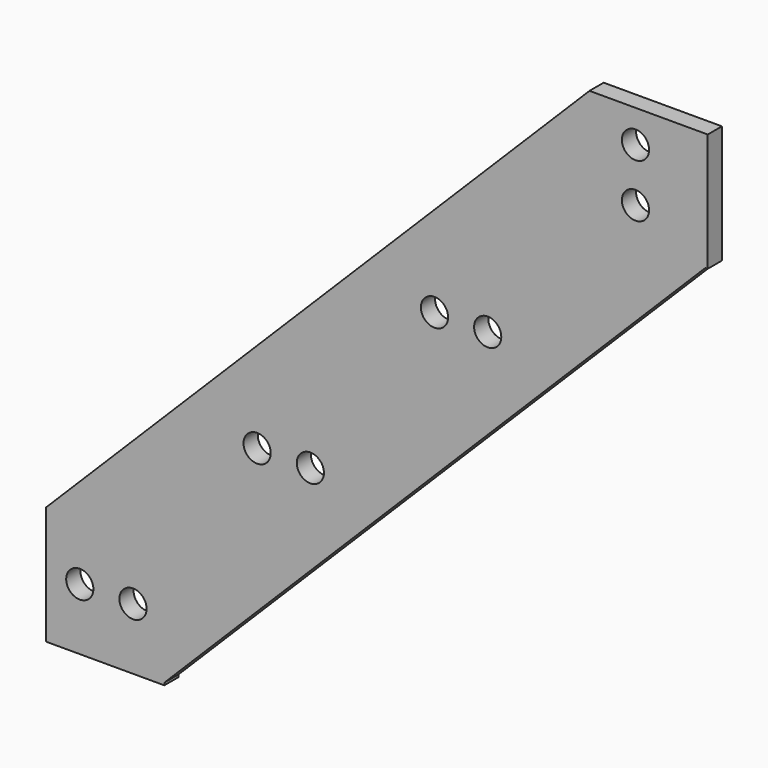
from build123d import *

# Parameters (mm, degrees)
CYLINDER051_R             = 2.3
CYLINDER051_DEPTH         = 100
ARRAY001029_X_COUNT       = 2
ARRAY001029_X_PITCH       = 9
ARRAY001029_Z_COUNT       = 3
ARRAY001029_Z_PITCH       = 42.426407
CYLINDER048_R             = 2.3
CYLINDER048_DEPTH         = 100
ARRAY001026_Z_COUNT       = 2
ARRAY001026_Z_PITCH       = 9
BOX026_W                  = 20
BOX026_H                  = 3
BOX026_DEPTH              = 20
BOX026_PLACEMENT_ANGLE    = 45
BOX027_W                  = 20
BOX027_H                  = 3
BOX027_DEPTH              = 20
BOX027_PLACEMENT_ANGLE    = 45
BOX025_W                  = 28
BOX025_H                  = 3
BOX025_DEPTH              = 130
FUSION021_PLACEMENT_ANGLE = 45


with BuildPart() as horizontal_hole_array003:
    # Cylinder051 → Cylinder051 (new body)
    with BuildSketch(Plane(origin=(4, -10, 5), x_dir=(1, 0, 0), z_dir=(0, 1, 0))):
        Circle(CYLINDER051_R)
    extrude(amount=CYLINDER051_DEPTH)

    # Array001029 X: horizontal hole array003 ×2


with BuildPart() as horizontal_hole_array003_1:
    add(horizontal_hole_array003.part)
    with Locations(*[(i * ARRAY001029_X_PITCH, 0, 0) for i in range(1, ARRAY001029_X_COUNT)]):
        add(horizontal_hole_array003.part)

    # Array001029 Z: horizontal hole array003 ×3


with BuildPart() as horizontal_hole_array003_2:
    add(horizontal_hole_array003_1.part)
    with Locations(*[Vector(0.707107, 0, 0.707107) * (i * ARRAY001029_Z_PITCH) for i in range(1, ARRAY001029_Z_COUNT)]):
        add(horizontal_hole_array003_1.part)


with BuildPart() as horizontal_hole_array003_3:
    # Array001029 placement: moved
    add(horizontal_hole_array003_2.part.moved(Location((-98, 0, -86))))


with BuildPart() as fusion024:
    # Cylinder048 → Cylinder048 (new body)
    with BuildSketch(Plane(origin=(0, -10, 6), x_dir=(1, 0, 0), z_dir=(0, 1, 0))):
        Circle(CYLINDER048_R)
    extrude(amount=CYLINDER048_DEPTH)

    # Array001026 Z: Fusion024 ×2


with BuildPart() as fusion024_1:
    add(fusion024.part)
    with Locations(*[(0, 0, i * ARRAY001026_Z_PITCH) for i in range(1, ARRAY001026_Z_COUNT)]):
        add(fusion024.part)

    # Fusion024: union horizontal hole array003
    add(horizontal_hole_array003_3.part)


with BuildPart() as side_cube:
    # Box026 → Box026 (new body)
    with BuildSketch(Plane.XY):
        with Locations((10, 1.5)):
            Rectangle(BOX026_W, BOX026_H)
    extrude(amount=BOX026_DEPTH)


with BuildPart() as side_cube_1:
    # Box026 placement: moved
    add(side_cube.part.moved(Location((0, 0, 130))).rotate(Axis((0, 0, 130), (0, 1, 0)), BOX026_PLACEMENT_ANGLE))


with BuildPart() as side_cube001:
    # Box027 → Box027 (new body)
    with BuildSketch(Plane.XY):
        with Locations((10, 1.5)):
            Rectangle(BOX027_W, BOX027_H)
    extrude(amount=BOX027_DEPTH)


with BuildPart() as side_cube001_1:
    # Box027 placement: moved
    add(side_cube001.part.rotate(Axis((0, 0, 0), (0, 1, 0)), BOX027_PLACEMENT_ANGLE))


with BuildPart() as stand_attachment_side_plate_cut:
    # Box025 → Box025 (new body)
    with BuildSketch(Plane.XY):
        with Locations((14, 1.5)):
            Rectangle(BOX025_W, BOX025_H)
    extrude(amount=BOX025_DEPTH)

    # Fusion021: union side cube, side cube001
    add(side_cube_1.part)
    add(side_cube001_1.part)


with BuildPart() as stand_attachment_side_plate_cut_1:
    # Fusion021 placement: moved
    add(stand_attachment_side_plate_cut.part.moved(Location((-99.702056, -3, -71.417785))).rotate(Axis((-99.702056, -3, -71.417785), (0, 1, 0)), FUSION021_PLACEMENT_ANGLE))

    # Cut019: cut Fusion024
    add(fusion024_1.part, mode=Mode.SUBTRACT)


solid = stand_attachment_side_plate_cut_1.part
